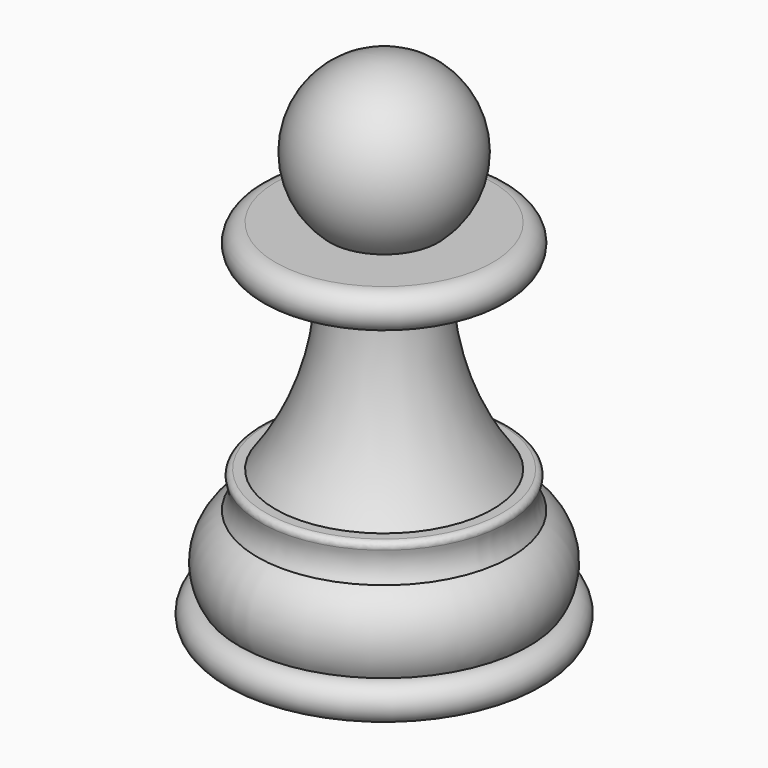
from build123d import *

# Parameters (mm, degrees)
F2_R = 0.3


with BuildPart() as f1:
    # F0 (on Front) → F1 (revolve)
    with BuildSketch(Plane.XZ):
        with BuildLine():
            Line((-39.7588305473, 26.102116676), (-36.7588305473, 26.102116676))
            Line((-36.7588305473, 26.102116676), (-36.7588305473, 34.102116676))
            ThreePointArc((-36.7588305473, 34.102116676), (-41.03083242, 31.1416173783), (-39.7588305473, 26.102116676))
        make_face()
        with BuildLine():
            Line((-39.7588305473, 24.102116676), (-36.7588305473, 24.102116676))
            Line((-36.7588305473, 24.102116676), (-36.7588305473, 26.102116676))
            Line((-36.7588305473, 26.102116676), (-39.7588305473, 26.102116676))
            Line((-39.7588305473, 26.102116676), (-42.7588305473, 26.102116676))
            ThreePointArc((-42.7588305473, 26.102116676), (-43.7588305473, 25.102116676), (-42.7588305473, 24.102116676))
            Line((-42.7588305473, 24.102116676), (-39.7588305473, 24.102116676))
        make_face()
        with BuildLine():
            Line((-36.7588305473, 14.102116676), (-36.7588305473, 24.102116676))
            Line((-36.7588305473, 24.102116676), (-39.7588305473, 24.102116676))
            ThreePointArc((-39.7588305473, 24.102116676), (-40.3761295024, 18.8373063626), (-42.7588305473, 14.102116676))
            Line((-42.7588305473, 14.102116676), (-36.7588305473, 14.102116676))
        make_face()
        with BuildLine():
            Line((-36.7588305473, 8.102116676), (-36.7588305473, 14.102116676))
            Line((-36.7588305473, 14.102116676), (-42.7588305473, 14.102116676))
            Line((-42.7588305473, 14.102116676), (-43.7588305473, 14.102116676))
            ThreePointArc((-43.7588305473, 14.102116676), (-43.4827929321, 13.102116676), (-43.7588305473, 12.102116676))
            ThreePointArc((-43.7588305473, 12.102116676), (-45.082180982, 10.3079542847), (-44.7588305473, 8.102116676))
            Line((-44.7588305473, 8.102116676), (-36.7588305473, 8.102116676))
        make_face()
        with BuildLine():
            Line((-36.7588305473, 6.102116676), (-36.7588305473, 8.102116676))
            Line((-36.7588305473, 8.102116676), (-44.7588305473, 8.102116676))
            ThreePointArc((-44.7588305473, 8.102116676), (-45.7588305473, 7.102116676), (-44.7588305473, 6.102116676))
            Line((-44.7588305473, 6.102116676), (-36.7588305473, 6.102116676))
        make_face()
    revolve(axis=Axis((-36.7588305473, 0, 15.102116676), (0, 0, -1)))

    # F2
    f2_edges = [f1.edges().sort_by_distance(p)[0] for p in [
        (-29.758831, 0, 14.102117),
    ]]
    fillet(f2_edges, radius=F2_R)


solid = f1.part
